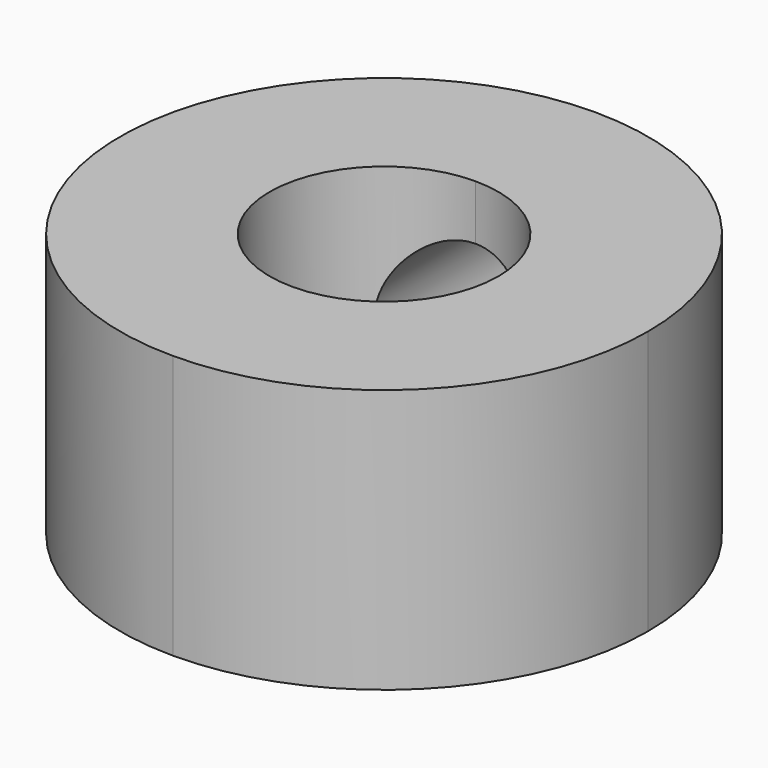
from build123d import *

# Parameters (mm, degrees)
F1_DEPTH = 6
F3_DEPTH = 5.9


with BuildPart() as f1:
    # F0 (on Top) → F1 (new body)
    with BuildSketch(Plane.XY):
        with BuildLine():
            ThreePointArc((6, -6), (4.2426406871, -1.7573593129), (0, 0))
            Line((0, 0), (0, -3.4))
            ThreePointArc((0, -3.4), (1.8384776311, -4.1615223689), (2.6, -6))
            ThreePointArc((2.6, -6), (1.8384776311, -7.8384776311), (0, -8.6))
            Line((0, -8.6), (0, -12))
            ThreePointArc((0, -12), (4.2426406871, -10.2426406871), (6, -6))
        make_face()
        with BuildLine():
            Line((0, -3.4), (0, 0))
            ThreePointArc((0, 0), (-6, -6), (0, -12))
            Line((0, -12), (0, -8.6))
            ThreePointArc((0, -8.6), (-2.6, -6), (0, -3.4))
        make_face()
    extrude(amount=F1_DEPTH)

    # F2 (on Front) → F3 (cut)
    with BuildSketch(Plane.XZ):
        with BuildLine():
            ThreePointArc((0, 4.75), (-1.75, 3), (0, 1.25))
            Line((0, 1.25), (0, 4.75))
        make_face()
        with BuildLine():
            Line((0, 4.75), (0, 1.25))
            ThreePointArc((0, 1.25), (1.2374368671, 1.7625631329), (1.75, 3))
            ThreePointArc((1.75, 3), (1.2374368671, 4.2374368671), (0, 4.75))
        make_face()
    extrude(amount=F3_DEPTH, mode=Mode.SUBTRACT)


solid = f1.part
